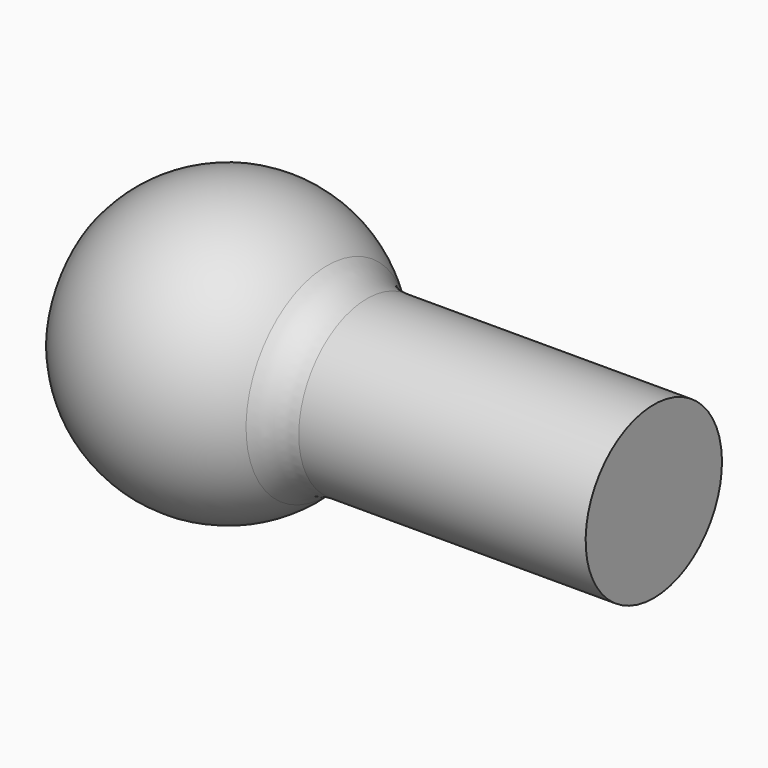
from build123d import *

# Parameters (mm, degrees)
F2_R = 2


with BuildPart() as f1:
    # F0 (on Front) → F1 (revolve)
    with BuildSketch(Plane.XZ):
        with BuildLine():
            Line((0, -3), (0, 0))
            Line((0, 0), (-18.807409, 0))
            Line((-18.807409, 0), (-18.807409, -3.240931))
            ThreePointArc((-18.807409, -3.240931), (-14.845777, -4.997621), (-11, -3))
            Line((-11, -3), (0, -3))
        make_face()
    revolve(axis=Axis((-9.403705, 0, 0), (-1, 0, 0)))

    # F2
    f2_edges = [f1.edges().sort_by_distance(p)[0] for p in [
        (-11, 0, 3),
    ]]
    fillet(f2_edges, radius=F2_R)


solid = f1.part
